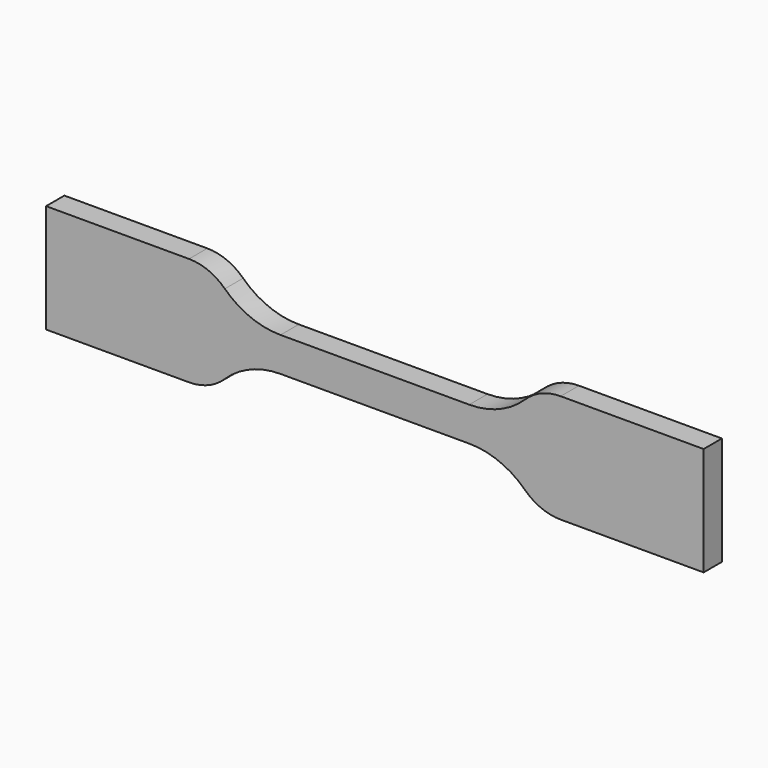
from build123d import *

# Parameters (mm, degrees)
F1_DEPTH = 2


with BuildPart() as f1:
    # F0 (on Front) → F1 (new body, symmetric)
    with BuildSketch(Plane.XZ):
        with BuildLine():
            Line((16.5, 3), (0, 3))
            Line((0, 3), (-16.5, 3))
            ThreePointArc((-16.5, 3), (-21.753184, 4.022941), (-26.238697, 6.942278))
            ThreePointArc((-26.238697, 6.942278), (-29.118216, 8.835912), (-32.5, 9.5))
            Line((-32.5, 9.5), (-57.5, 9.5))
            Line((-57.5, 9.5), (-57.5, 0))
            Line((-57.5, 0), (-57.5, -9.5))
            Line((-57.5, -9.5), (-32.5, -9.5))
            ThreePointArc((-32.5, -9.5), (-29.118216, -8.835912), (-26.238697, -6.942278))
            ThreePointArc((-26.238697, -6.942278), (-21.753184, -4.022941), (-16.5, -3))
            Line((-16.5, -3), (0, -3))
            Line((0, -3), (16.5, -3))
            ThreePointArc((16.5, -3), (21.753184, -4.022941), (26.238697, -6.942278))
            ThreePointArc((26.238697, -6.942278), (29.118216, -8.835912), (32.5, -9.5))
            Line((32.5, -9.5), (57.5, -9.5))
            Line((57.5, -9.5), (57.5, 0))
            Line((57.5, 0), (57.5, 9.5))
            Line((57.5, 9.5), (32.5, 9.5))
            ThreePointArc((32.5, 9.5), (29.118216, 8.835912), (26.238697, 6.942278))
            ThreePointArc((26.238697, 6.942278), (21.753184, 4.022941), (16.5, 3))
        make_face()
    extrude(amount=F1_DEPTH, both=True)


solid = f1.part
